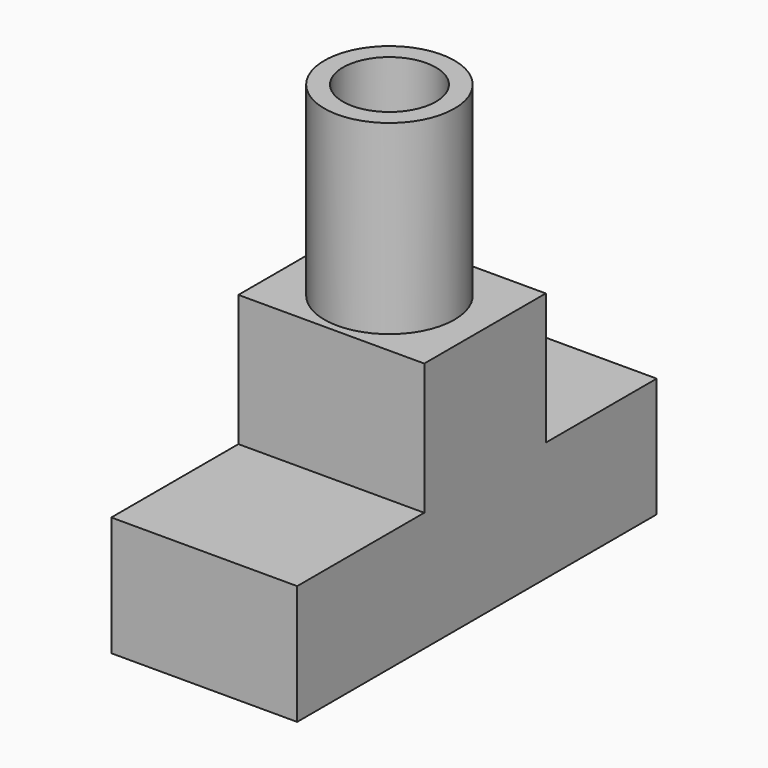
from build123d import *

# Parameters (mm, degrees)
F1_DEPTH = 25.4
F2_R     = 8.89
F2_R_2   = 6.35
F3_DEPTH = 25.4


with BuildPart() as f1:
    # F0 (on Right) → F1 (new body)
    with BuildSketch(Plane.YZ):
        Polygon((-31.634912, 16.336218), (-31.634912, 0), (0, 0), (29.778156, 0), (29.778156, 16.336218), (10.828421, 16.336218), (10.828421, 34.290001), (-9.926053, 34.290001), (-9.926053, 16.336218), align=None)
    extrude(amount=F1_DEPTH)

    # F2 (on face) → F3 (join)
    with BuildSketch(Plane.XY.offset(34.290001)):
        with Locations((12.7, 0)):
            Circle(F2_R)
        with Locations((12.7, 0)):
            Circle(F2_R_2, mode=Mode.SUBTRACT)
    extrude(amount=F3_DEPTH)


solid = f1.part
